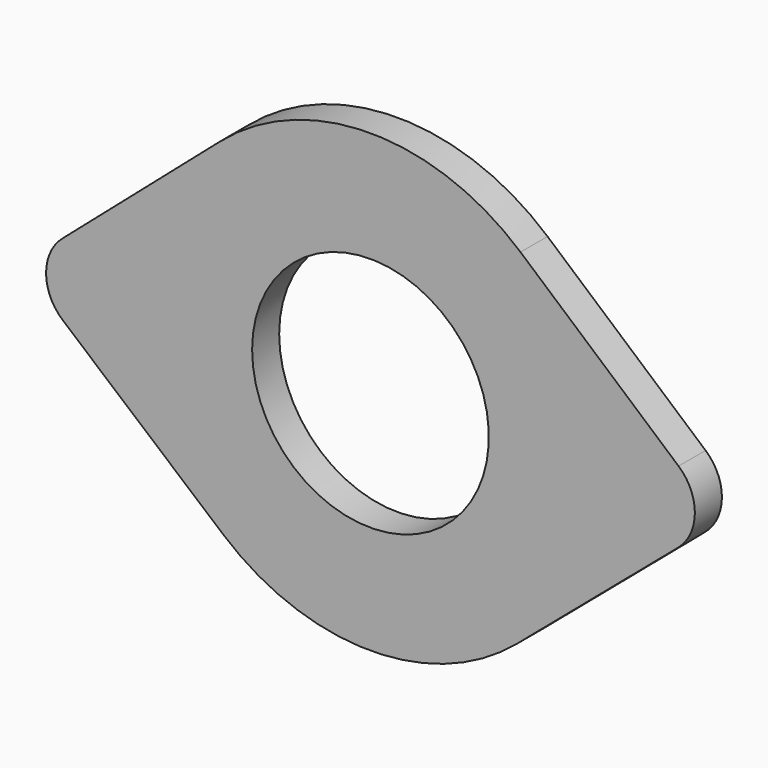
from build123d import *

# Parameters (mm, degrees)
F1_DEPTH = 5
F3_D     = 35


with BuildPart() as f1:
    # F0 (on Front) → F1 (new body)
    with BuildSketch(Plane.XZ):
        with BuildLine():
            Line((-22.183474, 25.593144), (-45.549488, 5.340088))
            ThreePointArc((-45.549488, 5.340088), (-47.964572, 0.01762), (-45.499524, -5.281894))
            Line((-45.499524, -5.281894), (-21.702612, -25.519534))
            ThreePointArc((-21.702612, -25.519534), (0, -33.5), (21.702612, -25.519534))
            Line((21.702612, -25.519534), (45.499524, -5.281894))
            ThreePointArc((45.499524, -5.281894), (47.964572, 0.01762), (45.549488, 5.340088))
            Line((45.549488, 5.340088), (22.183474, 25.593144))
            ThreePointArc((22.183474, 25.593144), (0, 33.869094), (-22.183474, 25.593144))
        make_face()
    extrude(amount=F1_DEPTH)

    # F3 (through all)
    with Locations(Plane.XZ.offset(5)):
        with Locations((0, 0)):
            Hole(F3_D / 2)


solid = f1.part
